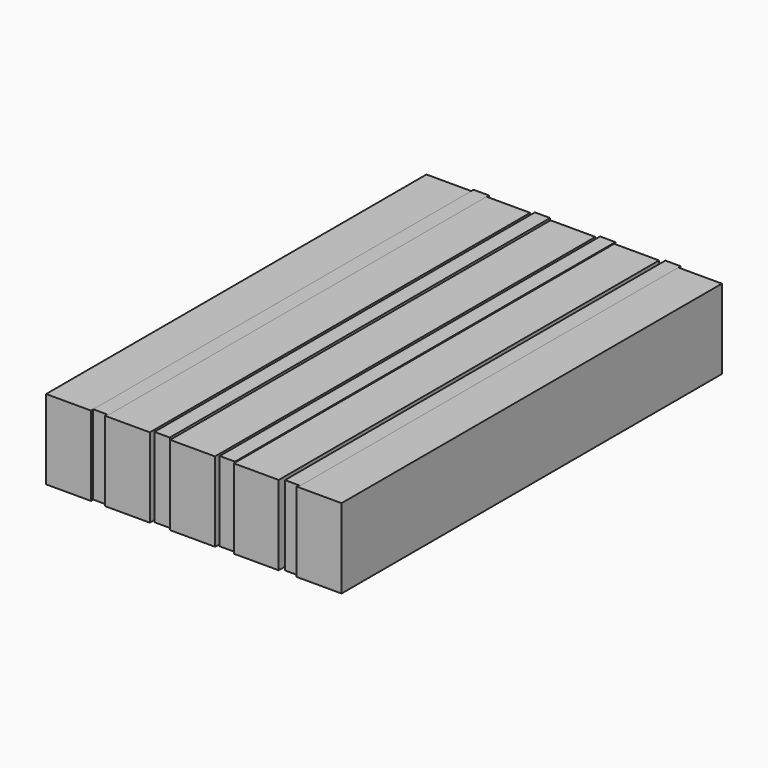
from build123d import *

# Parameters (mm, degrees)
F0_W     = 14.325597
F0_H     = 151.790403
F1_DEPTH = 25.4
F6_W     = 2.4384
F6_H     = 28.4988
F7_DEPTH = 25.4


with BuildPart() as f1:
    # F0 (on Top) → F1 (new body)
    with BuildSketch(Plane.XY):
        with Locations((-68.732399, -0.152397)):
            Rectangle(F0_W, F0_H)
    extrude(amount=F1_DEPTH)


with BuildPart() as f2_1:
    # F2: copy of F1
    add(f1.part.moved(Location((18.796, 0, 0))))


with BuildPart() as f3_1:
    # F3: copy of F2_1
    add(f2_1.part.moved(Location((20.828, 0, 0))))


with BuildPart() as f4_1:
    # F4: copy of F3_1
    add(f3_1.part.moved(Location((20.32, 0, 0))))


with BuildPart() as f5_1:
    # F5: copy of F4_1
    add(f4_1.part.moved(Location((20.066, 0, 0))))


with BuildPart() as f7:
    # F6 (on Top) → F7 (new body)
    with BuildSketch(Plane.XY):
        Polygon((-56.692801, 76.657206), (-61.569601, 76.657206), (-61.569601, -75.133204), (-56.692801, -75.133204), (-56.692801, 45.415199), (-59.131201, 45.415199), (-59.131201, 73.913999), (-56.692801, 73.913999), align=None)
        with Locations((-57.912001, 59.664599)):
            Rectangle(F6_W, F6_H)
    extrude(amount=F7_DEPTH)


with BuildPart() as f8_1:
    # F8: copy of F7
    add(f7.part.moved(Location((19.558, 0, 0))))


with BuildPart() as f9_1:
    # F9: copy of F8_1
    add(f8_1.part.moved(Location((20.828, 0, 0))))


with BuildPart() as f10_1:
    # F10: copy of F9_1
    add(f9_1.part.moved(Location((20.828, 0, 0))))


solid = Compound([f1.part, f2_1.part, f3_1.part, f4_1.part, f5_1.part, f7.part, f8_1.part, f9_1.part, f10_1.part])
